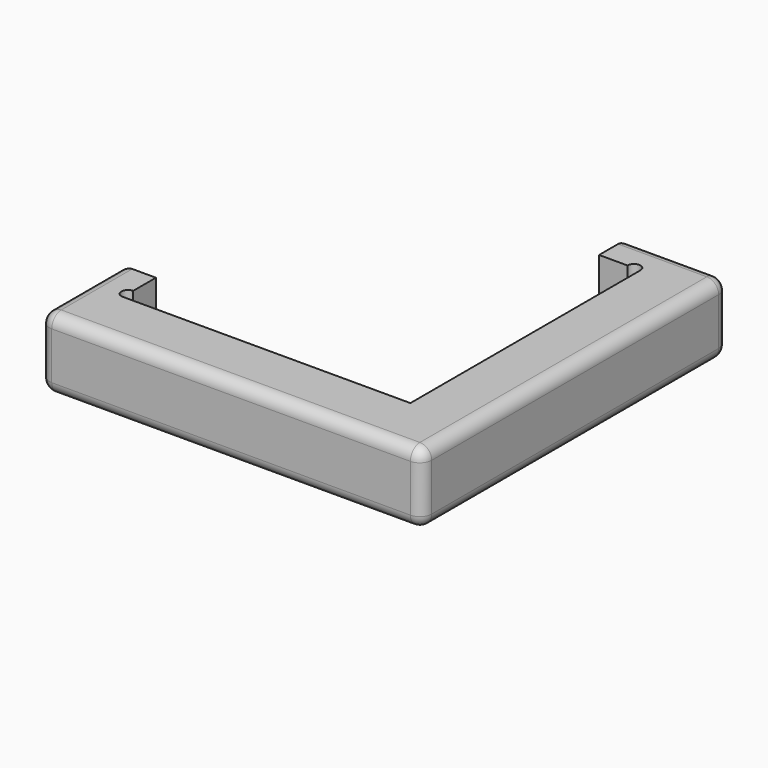
from build123d import *

# Parameters (mm, degrees)
F1_DEPTH = 12
F2_R     = 1.1
F3_DEPTH = 12.001
F4_R     = 2


with BuildPart() as f1:
    # F0 (on Top) → F1 (new body)
    with BuildSketch(Plane.XY):
        Polygon((0, 17), (0, 0), (64.6, 0), (64.6, 58.6), (64.6, 64.6), (47.6, 64.6), (47.6, 58.6), (54.6, 58.6), (54.6, 10), (6, 10), (6, 17), align=None)
    extrude(amount=F1_DEPTH)

    # F2 (on Top) → F3 (cut, through all)
    with BuildSketch(Plane.XY):
        with Locations((6, 11.1)):
            Circle(F2_R)
        with Locations((53.5, 58.6)):
            Circle(F2_R)
    extrude(amount=F3_DEPTH, mode=Mode.SUBTRACT)

    # F4
    f4_edges = [f1.edges().sort_by_distance(p)[0] for p in [
        (0, 0, 6),
        (64.6, 0, 6),
        (32.3, 0, 0),
        (32.3, 0, 12),
        (0, 17, 6),
        (0, 8.5, 0),
        (0, 8.5, 12),
        (64.6, 32.3, 12),
        (64.6, 64.6, 6),
        (64.6, 32.3, 0),
        (47.6, 64.6, 6),
        (56.1, 64.6, 0),
        (56.1, 64.6, 12),
    ]]
    fillet(f4_edges, radius=F4_R)


solid = f1.part
